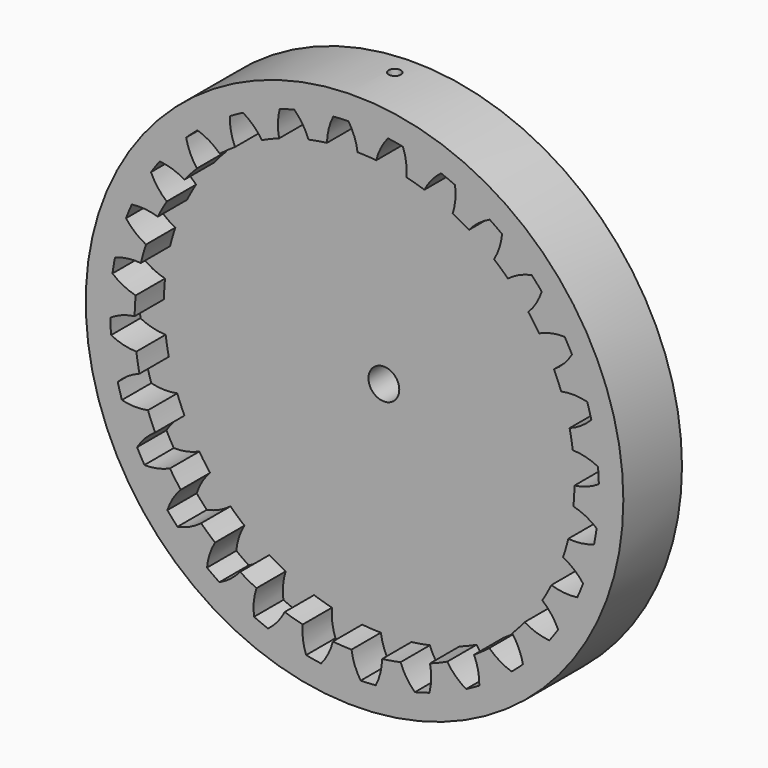
from build123d import *

# Parameters (mm, degrees)
F1_DEPTH      = 9.525
F2_COUNT      = 28
F3_R          = 57.15
F4_DEPTH      = 9.525
F5_R          = 69.85
F6_DEPTH      = 9.525
F6_DEPTH_BACK = 9.525
F8_R          = 4
F9_DEPTH      = 9.526
F11_R         = 1.5875
F12_DEPTH     = 25.4


with BuildPart() as f1:
    # F0 (on Front) → F1 (new body)
    with BuildSketch(Plane.XZ):
        with BuildLine():
            ThreePointArc((-7.1648056114, 56.6991010559), (-3.2001579657, 57.0603320092), (0.7800185047, 57.1446766649))
            ThreePointArc((0.7800185047, 57.1446766649), (-0.0448354035, 60.4465604137), (-1.5876095279, 63.4801504093))
            ThreePointArc((-1.5876095279, 63.4801504093), (-3.555731073, 63.4003688991), (-5.5204312614, 63.2595829791))
            ThreePointArc((-5.5204312614, 63.2595829791), (-6.7143272298, 60.0725102348), (-7.1648056114, 56.6991010559))
        make_face()
    extrude(amount=F1_DEPTH)


with BuildPart() as f2_1:
    # F2: instance of F1
    add(f1.part.rotate(Axis((0, 0, 0), (0, -1, 0)), 1 * 360 / F2_COUNT))


with BuildPart() as f2_2:
    # F2: instance of F1
    add(f1.part.rotate(Axis((0, 0, 0), (0, -1, 0)), 2 * 360 / F2_COUNT))


with BuildPart() as f2_3:
    # F2: instance of F1
    add(f1.part.rotate(Axis((0, 0, 0), (0, -1, 0)), 3 * 360 / F2_COUNT))


with BuildPart() as f2_4:
    # F2: instance of F1
    add(f1.part.rotate(Axis((0, 0, 0), (0, -1, 0)), 4 * 360 / F2_COUNT))


with BuildPart() as f2_5:
    # F2: instance of F1
    add(f1.part.rotate(Axis((0, 0, 0), (0, -1, 0)), 5 * 360 / F2_COUNT))


with BuildPart() as f2_6:
    # F2: instance of F1
    add(f1.part.rotate(Axis((0, 0, 0), (0, -1, 0)), 6 * 360 / F2_COUNT))


with BuildPart() as f2_7:
    # F2: instance of F1
    add(f1.part.rotate(Axis((0, 0, 0), (0, -1, 0)), 7 * 360 / F2_COUNT))


with BuildPart() as f2_8:
    # F2: instance of F1
    add(f1.part.rotate(Axis((0, 0, 0), (0, -1, 0)), 8 * 360 / F2_COUNT))


with BuildPart() as f2_9:
    # F2: instance of F1
    add(f1.part.rotate(Axis((0, 0, 0), (0, -1, 0)), 9 * 360 / F2_COUNT))


with BuildPart() as f2_10:
    # F2: instance of F1
    add(f1.part.rotate(Axis((0, 0, 0), (0, -1, 0)), 10 * 360 / F2_COUNT))


with BuildPart() as f2_11:
    # F2: instance of F1
    add(f1.part.rotate(Axis((0, 0, 0), (0, -1, 0)), 11 * 360 / F2_COUNT))


with BuildPart() as f2_12:
    # F2: instance of F1
    add(f1.part.rotate(Axis((0, 0, 0), (0, -1, 0)), 12 * 360 / F2_COUNT))


with BuildPart() as f2_13:
    # F2: instance of F1
    add(f1.part.rotate(Axis((0, 0, 0), (0, -1, 0)), 13 * 360 / F2_COUNT))


with BuildPart() as f2_14:
    # F2: instance of F1
    add(f1.part.rotate(Axis((0, 0, 0), (0, -1, 0)), 14 * 360 / F2_COUNT))


with BuildPart() as f2_15:
    # F2: instance of F1
    add(f1.part.rotate(Axis((0, 0, 0), (0, -1, 0)), 15 * 360 / F2_COUNT))


with BuildPart() as f2_16:
    # F2: instance of F1
    add(f1.part.rotate(Axis((0, 0, 0), (0, -1, 0)), 16 * 360 / F2_COUNT))


with BuildPart() as f2_17:
    # F2: instance of F1
    add(f1.part.rotate(Axis((0, 0, 0), (0, -1, 0)), 17 * 360 / F2_COUNT))


with BuildPart() as f2_18:
    # F2: instance of F1
    add(f1.part.rotate(Axis((0, 0, 0), (0, -1, 0)), 18 * 360 / F2_COUNT))


with BuildPart() as f2_19:
    # F2: instance of F1
    add(f1.part.rotate(Axis((0, 0, 0), (0, -1, 0)), 19 * 360 / F2_COUNT))


with BuildPart() as f2_20:
    # F2: instance of F1
    add(f1.part.rotate(Axis((0, 0, 0), (0, -1, 0)), 20 * 360 / F2_COUNT))


with BuildPart() as f2_21:
    # F2: instance of F1
    add(f1.part.rotate(Axis((0, 0, 0), (0, -1, 0)), 21 * 360 / F2_COUNT))


with BuildPart() as f2_22:
    # F2: instance of F1
    add(f1.part.rotate(Axis((0, 0, 0), (0, -1, 0)), 22 * 360 / F2_COUNT))


with BuildPart() as f2_23:
    # F2: instance of F1
    add(f1.part.rotate(Axis((0, 0, 0), (0, -1, 0)), 23 * 360 / F2_COUNT))


with BuildPart() as f2_24:
    # F2: instance of F1
    add(f1.part.rotate(Axis((0, 0, 0), (0, -1, 0)), 24 * 360 / F2_COUNT))


with BuildPart() as f2_25:
    # F2: instance of F1
    add(f1.part.rotate(Axis((0, 0, 0), (0, -1, 0)), 25 * 360 / F2_COUNT))


with BuildPart() as f2_26:
    # F2: instance of F1
    add(f1.part.rotate(Axis((0, 0, 0), (0, -1, 0)), 26 * 360 / F2_COUNT))


with BuildPart() as f2_27:
    # F2: instance of F1
    add(f1.part.rotate(Axis((0, 0, 0), (0, -1, 0)), 27 * 360 / F2_COUNT))


with BuildPart() as f1_1:
    add(f1.part)

    add(f2_1.part)  # F4 merges F2_1

    add(f2_2.part)  # F4 merges F2_2

    add(f2_3.part)  # F4 merges F2_3

    add(f2_4.part)  # F4 merges F2_4

    add(f2_5.part)  # F4 merges F2_5

    add(f2_6.part)  # F4 merges F2_6

    add(f2_7.part)  # F4 merges F2_7

    add(f2_8.part)  # F4 merges F2_8

    add(f2_9.part)  # F4 merges F2_9

    add(f2_10.part)  # F4 merges F2_10

    add(f2_11.part)  # F4 merges F2_11

    add(f2_12.part)  # F4 merges F2_12

    add(f2_13.part)  # F4 merges F2_13

    add(f2_14.part)  # F4 merges F2_14

    add(f2_15.part)  # F4 merges F2_15

    add(f2_16.part)  # F4 merges F2_16

    add(f2_17.part)  # F4 merges F2_17

    add(f2_18.part)  # F4 merges F2_18

    add(f2_19.part)  # F4 merges F2_19

    add(f2_20.part)  # F4 merges F2_20

    add(f2_21.part)  # F4 merges F2_21

    add(f2_22.part)  # F4 merges F2_22

    add(f2_23.part)  # F4 merges F2_23

    add(f2_24.part)  # F4 merges F2_24

    add(f2_25.part)  # F4 merges F2_25

    add(f2_26.part)  # F4 merges F2_26

    add(f2_27.part)  # F4 merges F2_27
    # F3 (on Front) → F4 (join, through all)
    with BuildSketch(Plane.XZ):
        Circle(F3_R)
    extrude(amount=F4_DEPTH)


with BuildPart() as f6:
    # F5 (on Front) → F6 (new body, two sides)
    with BuildSketch(Plane.XZ) as f6_sk:
        Circle(F5_R)
    extrude(amount=F6_DEPTH)
    extrude(f6_sk.sketch, amount=-F6_DEPTH_BACK)

    # F7: cut F1
    add(f1_1.part, mode=Mode.SUBTRACT)

    # F8 (on face) → F9 (cut, through all)
    with BuildSketch(Plane.XZ):
        Circle(F8_R)
    extrude(amount=-F9_DEPTH, mode=Mode.SUBTRACT)

    # F11 (on offset) → F12 (cut)
    with BuildSketch(Plane.XY.offset(76.2)):
        with Locations((0, 3.52552)):
            Circle(F11_R)
    extrude(amount=-F12_DEPTH, mode=Mode.SUBTRACT)


solid = f6.part
